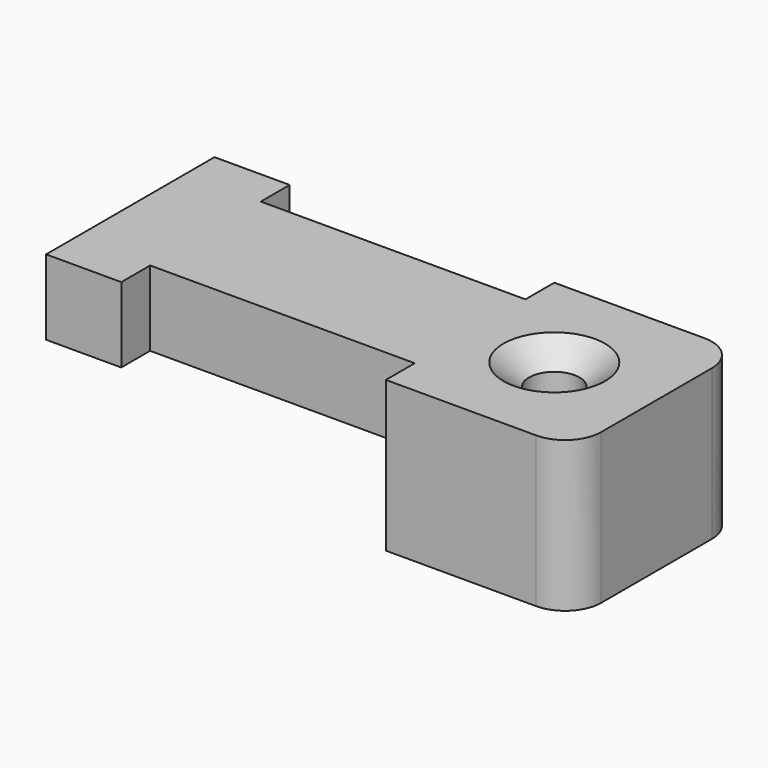
from build123d import *

# Parameters (mm, degrees)
F1_DEPTH       = 17.78
F2_W           = 22.352
F2_H           = 7.714197
F2_H_2         = 6.145762
F3_DEPTH       = 12.701
F4_R           = 3.048
F6_D           = 4.2672
F6_CSINK_D     = 8.5852
F6_CSINK_ANGLE = 100


with BuildPart() as f1:
    # F0 (on Front) → F1 (new body)
    with BuildSketch(Plane.XZ):
        Polygon((15.748, -12.7), (15.748, 0), (-28.702, 0), (-28.702, -6.35), (0, -6.35), (0, -12.7), align=None)
    extrude(amount=F1_DEPTH)

    # F2 (on face) → F3 (cut, through all)
    with BuildSketch(Plane.XY):
        with Locations((-11.176, -18.589098)):
            Rectangle(F2_W, F2_H)
        with Locations((-11.176, 0.024881)):
            Rectangle(F2_W, F2_H_2)
    extrude(amount=-F3_DEPTH, mode=Mode.SUBTRACT)

    # F4
    f4_edges = [f1.edges().sort_by_distance(p)[0] for p in [
        (15.748, 0, -6.35),
        (15.748, -17.78, -6.35),
    ]]
    fillet(f4_edges, radius=F4_R)

    # F6 (through all)
    with Locations(Plane.XY):
        with Locations((7.112, -8.89)):
            CounterSinkHole(F6_D / 2, F6_CSINK_D / 2, counter_sink_angle=F6_CSINK_ANGLE)


solid = f1.part
